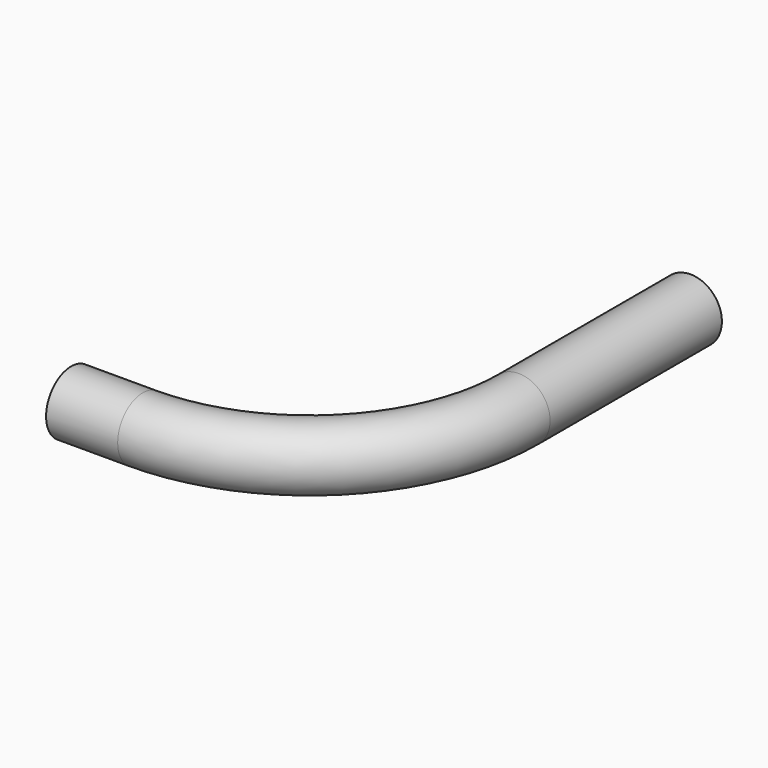
from build123d import *

# Parameters (mm, degrees)
F0_R = 2.7813
F3_R = 2.6055738226


with BuildPart() as f2:
    # F2: sweep along a path in F1
    with BuildLine(Plane.XY) as f2_path:
        Line((0, 0), (0, -19.05))
        ThreePointArc((0, -19.05), (-5.4271063194, -32.1521936806), (-18.5293, -37.5793))
        Line((-18.5293, -37.5793), (-24.8793, -37.5793))
    # F0 (on Front) → F2 (sweep)
    with BuildSketch(Plane.XZ):
        Circle(F0_R)
    sweep(path=f2_path.line)

    # F4: sweep along a path in F1
    with BuildLine(Plane.XY) as f4_path:
        Line((0, 0), (0, -19.05))
        ThreePointArc((0, -19.05), (-5.4271063194, -32.1521936806), (-18.5293, -37.5793))
        Line((-18.5293, -37.5793), (-24.8793, -37.5793))
    # F3 (on face) → F4 (sweep, cut)
    with BuildSketch(Plane(origin=(-24.8793, 0, 0), x_dir=(0, -1, 0), z_dir=(-1, 0, 0))):
        with Locations((37.5793, 0)):
            Circle(F3_R)
    sweep(path=f4_path.line, mode=Mode.SUBTRACT)


solid = f2.part
